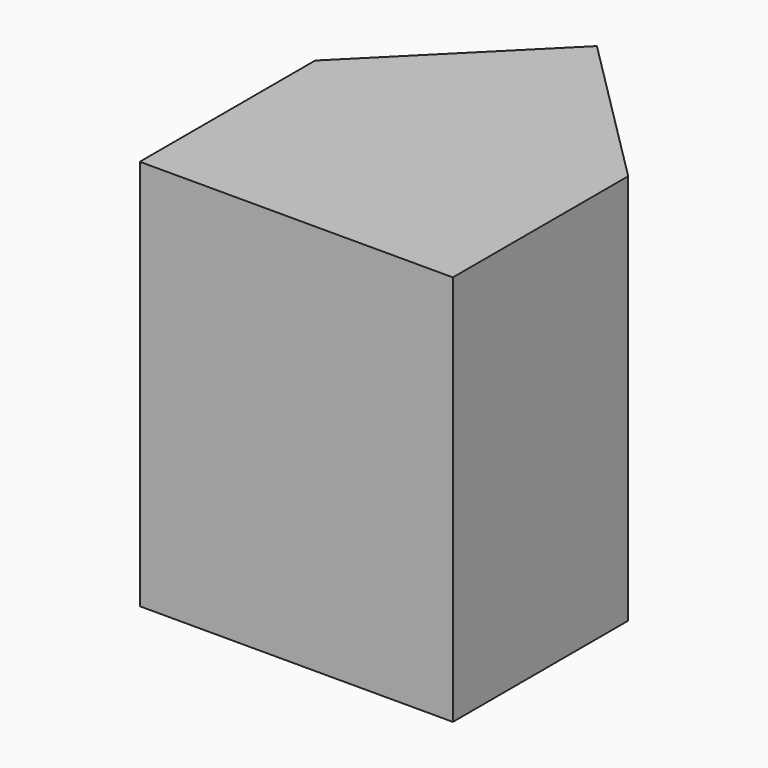
from build123d import *

# Parameters (mm, degrees)
F0_W     = 20
F0_H     = 14
F1_DEPTH = 25


with BuildPart() as f1:
    # F0 (on Top) → F1 (new body)
    with BuildSketch(Plane.XY):
        with Locations((6.421969, 12.208542)):
            Rectangle(F0_W, F0_H)
        Polygon((6.421969, 29.208542), (-3.578031, 19.208542), (16.421969, 19.208542), align=None)
    extrude(amount=-F1_DEPTH)


solid = f1.part
